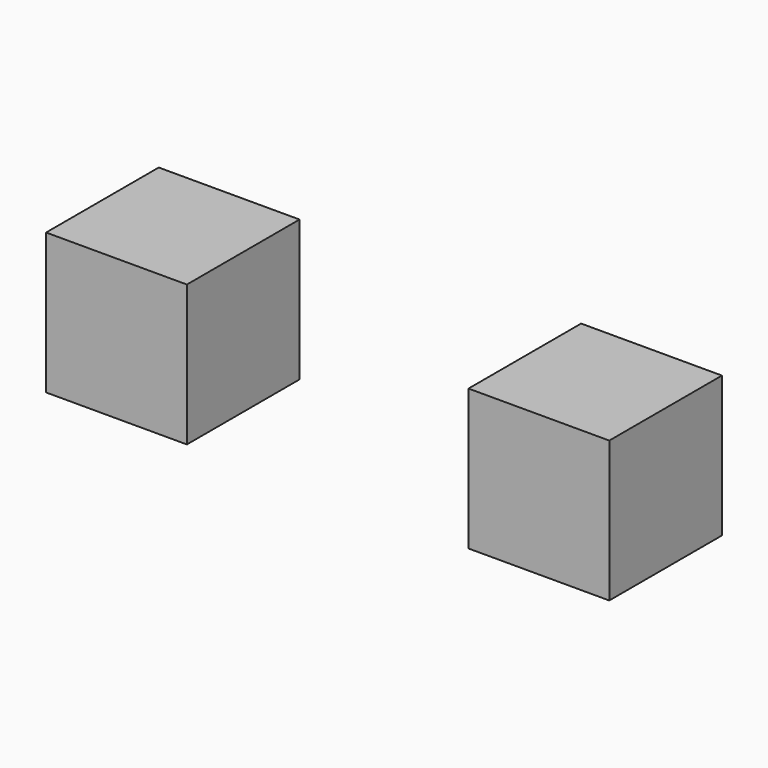
from build123d import *

# Parameters (mm, degrees)
F0_W     = 100
F0_H     = 100
F1_DEPTH = 100


with BuildPart() as f1:
    # F0 (on Front) → F1 (new body)
    with BuildSketch(Plane.XZ):
        with Locations((50, 50)):
            Rectangle(F0_W, F0_H)
    extrude(amount=F1_DEPTH)


with BuildPart() as f2_1:
    # F2: copy of F1
    add(f1.part.moved(Location((300, 0, 0))))


solid = Compound([f1.part, f2_1.part])
